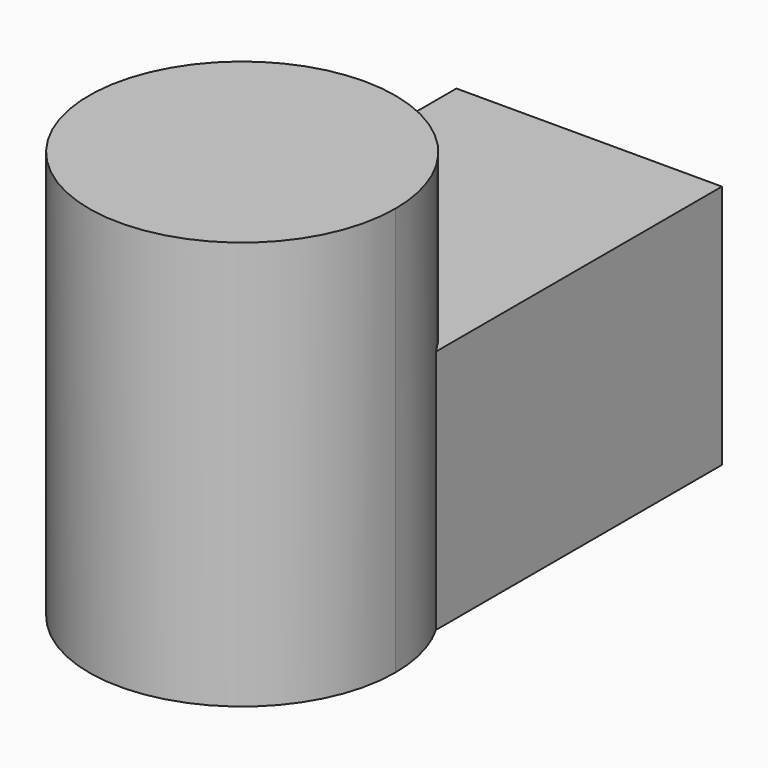
from build123d import *

# Parameters (mm, degrees)
F1_DEPTH = 60.96
F2_DEPTH = 101.6


with BuildPart() as f1:
    # F0 (on Top) → F1 (new body)
    with BuildSketch(Plane.XY):
        with BuildLine():
            ThreePointArc((-62.070731, 0.1311), (-29.01283, 19.158006), (3.969269, 0))
            Line((3.969269, 0), (3.969269, 88.9))
            Line((3.969269, 88.9), (-62.070731, 88.9))
            Line((-62.070731, 88.9), (-62.070731, 0.1311))
        make_face()
    extrude(amount=F1_DEPTH)

    # F0 (on Top) → F2 (join)
    with BuildSketch(Plane.XY):
        with BuildLine():
            ThreePointArc((-62.070731, 0.1311), (-38.962309, -55.740251), (9.011536, -18.941919))
            ThreePointArc((9.011536, -18.941919), (7.729396, -9.141144), (3.969269, 0))
            Line((3.969269, 0), (-62.070731, 0))
            Line((-62.070731, 0), (-62.070731, 0.1311))
        make_face()
        with BuildLine():
            Line((-62.070731, 0), (3.969269, 0))
            ThreePointArc((3.969269, 0), (-29.01283, 19.158006), (-62.070731, 0.1311))
            Line((-62.070731, 0.1311), (-62.070731, 0))
        make_face()
    extrude(amount=F2_DEPTH)


solid = f1.part
